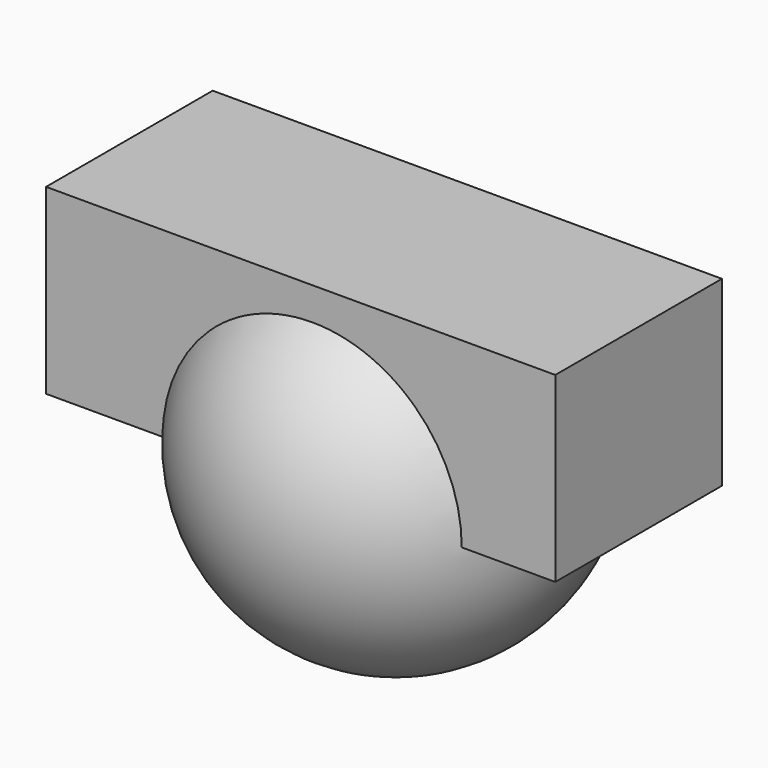
from build123d import *

# Parameters (mm, degrees)
F2_W     = 62.104048
F2_H     = 22.225
F3_DEPTH = 12.7


with BuildPart() as f1:
    # F0 (on Front) → F1 (revolve)
    with BuildSketch(Plane.XZ):
        with BuildLine():
            Line((0, 22.225), (0, -22.225))
            ThreePointArc((0, -22.225), (22.225, 0), (0, 22.225))
        make_face()
    revolve(axis=Axis((0, 0, 0), (0, 0, -1)))

    # F2 (on Front) → F3 (join, symmetric)
    with BuildSketch(Plane.XZ):
        with Locations((-1.405022, 11.1125)):
            Rectangle(F2_W, F2_H)
    extrude(amount=F3_DEPTH, both=True)


solid = f1.part
